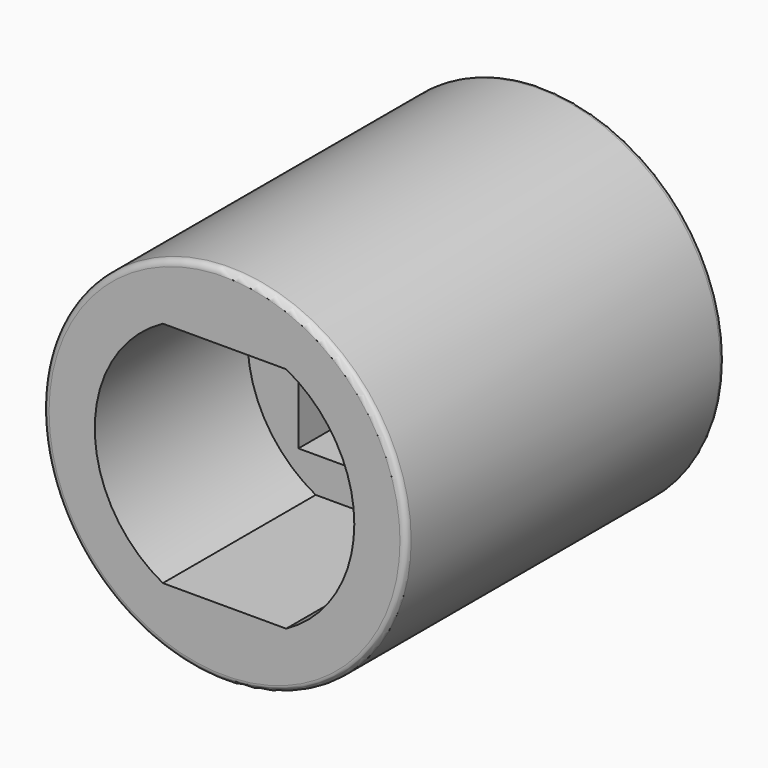
from build123d import *

# Parameters (mm, degrees)
F0_R     = 11.1125
F1_DEPTH = 24.384
F0_W     = 9.652
F0_H     = 9.652
F2_DEPTH = 12.7
F3_R     = 0.381


with BuildPart() as f1:
    # F0 (on Front) → F1 (new body)
    with BuildSketch(Plane.XZ):
        Circle(F0_R)
        with BuildLine():
            ThreePointArc((3.770104, 6.985), (6.816491, 4.066861), (7.9375, 0))
            ThreePointArc((7.9375, 0), (6.816491, -4.066861), (3.770104, -6.985))
            ThreePointArc((3.770104, -6.985), (0, -7.9375), (-3.770104, -6.985))
            ThreePointArc((-3.770104, -6.985), (-7.9375, 0), (-3.770104, 6.985))
            ThreePointArc((-3.770104, 6.985), (0, 7.9375), (3.770104, 6.985))
        make_face(mode=Mode.SUBTRACT)
        with BuildLine():
            ThreePointArc((-3.770104, -6.985), (0, -7.9375), (3.770104, -6.985))
            Line((3.770104, -6.985), (-3.770104, -6.985))
        make_face()
        with BuildLine():
            Line((-3.770104, 6.985), (3.770104, 6.985))
            ThreePointArc((3.770104, 6.985), (0, 7.9375), (-3.770104, 6.985))
        make_face()
    extrude(amount=F1_DEPTH)

    # F0 (on Front) → F2 (join)
    with BuildSketch(Plane.XZ):
        with BuildLine():
            ThreePointArc((3.770104, -6.985), (6.816491, -4.066861), (7.9375, 0))
            ThreePointArc((7.9375, 0), (6.816491, 4.066861), (3.770104, 6.985))
            Line((3.770104, 6.985), (-3.770104, 6.985))
            ThreePointArc((-3.770104, 6.985), (-7.9375, 0), (-3.770104, -6.985))
            Line((-3.770104, -6.985), (3.770104, -6.985))
        make_face()
        Rectangle(F0_W, F0_H, mode=Mode.SUBTRACT)
    extrude(amount=F2_DEPTH)

    # F3
    f3_edges = [f1.edges().sort_by_distance(p)[0] for p in [
        (-11.1125, -24.384, 0),
        (-11.1125, 0, 0),
    ]]
    fillet(f3_edges, radius=F3_R)


solid = f1.part
